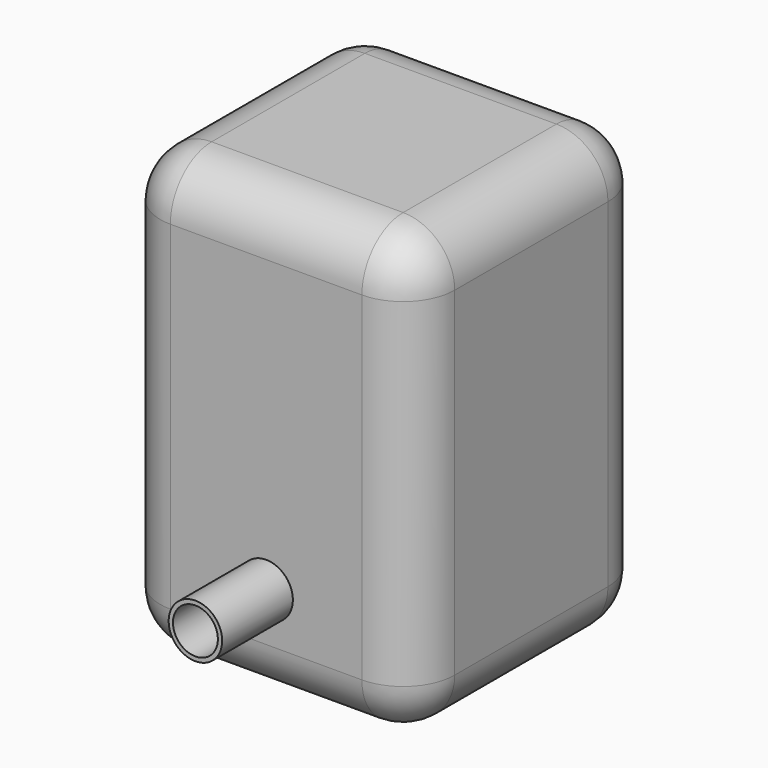
from build123d import *

# Parameters (mm, degrees)
F1_DEPTH = 127
F2_R     = 44.45
F3_R     = 23.0505
F3_R_2   = 19.3675
F4_DEPTH = 76.2


with BuildPart() as f1:
    # F0 (on Front) → F1 (new body, symmetric)
    with BuildSketch(Plane.XZ):
        Polygon((-127, -127), (0, -127), (127, -127), (127, 254), (-127, 254), align=None)
    extrude(amount=F1_DEPTH, both=True)

    # F2
    f2_edges = [f1.edges().sort_by_distance(p)[0] for p in [
        (0, -127, 254),
        (127, 0, 254),
        (0, -127, -127),
        (127, -127, 63.5),
        (-127, -127, 63.5),
        (127, 0, -127),
        (0, 127, 254),
        (-127, 0, 254),
        (-127, 127, 63.5),
        (-127, 0, -127),
        (0, 127, -127),
        (127, 127, 63.5),
    ]]
    fillet(f2_edges, radius=F2_R)

    # F3 (on face) → F4 (join)
    with BuildSketch(Plane.XZ.offset(127)):
        with Locations((0, -41.275)):
            Circle(F3_R)
        with Locations((0, -41.275)):
            Circle(F3_R_2, mode=Mode.SUBTRACT)
    extrude(amount=F4_DEPTH)


solid = f1.part
